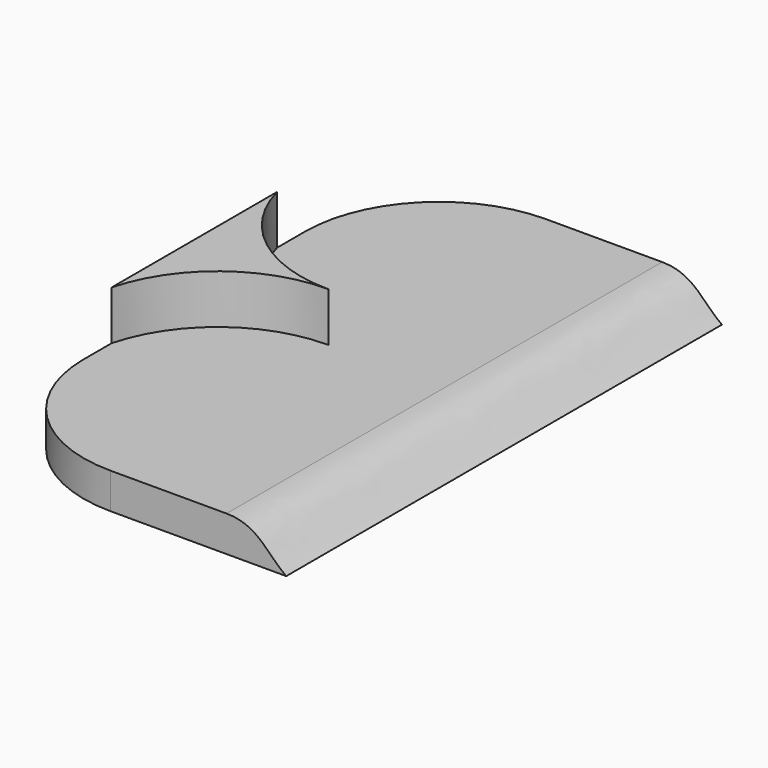
from build123d import *

# Parameters (mm, degrees)
F1_DEPTH = 122
F3_DEPTH = 11
F5_DEPTH = 8.001


with BuildPart() as f1:
    # F0 (on Front) → F1 (new body)
    with BuildSketch(Plane.XZ):
        with BuildLine():
            Line((-13, 5.003651), (-69, 5.003651))
            Line((-69, 5.003651), (-69, -2.996349))
            Line((-69, -2.996349), (0.385778, -2.996349))
            add(Edge.make_bspline(
                [(-13, 5.003651), (-8, 5.003651), (-4.435703, 1.439354), (-0.871407, -2.124942), (0.385778, -2.996349)],
                knots=[0, 0, 0, 0, 11.18034, 15.940018, 15.940018, 15.940018, 15.940018], degree=3))
        make_face()
    extrude(amount=F1_DEPTH)

    # F2 (on face) → F3 (join)
    with BuildSketch(Plane.XY.offset(5.003651)):
        with BuildLine():
            ThreePointArc((-69, -84.18975), (-57.958933, -67.473303), (-39, -61))
            ThreePointArc((-39, -61), (-57.958933, -54.526697), (-69, -37.81025))
            Line((-69, -37.81025), (-69, -84.18975))
        make_face()
    extrude(amount=F3_DEPTH)

    # F4 (on face) → F5 (cut, through all)
    with BuildSketch(Plane.XY.offset(5.003651)):
        with BuildLine():
            ThreePointArc((-39, -122), (-60.213203, -113.213203), (-69, -92))
            Line((-69, -92), (-69, -122))
            Line((-69, -122), (-39, -122))
        make_face()
        with BuildLine():
            Line((-69, 0), (-69, -30))
            ThreePointArc((-69, -30), (-60.213203, -8.786797), (-39, 0))
            Line((-39, 0), (-69, 0))
        make_face()
    extrude(amount=-F5_DEPTH, mode=Mode.SUBTRACT)


solid = f1.part
